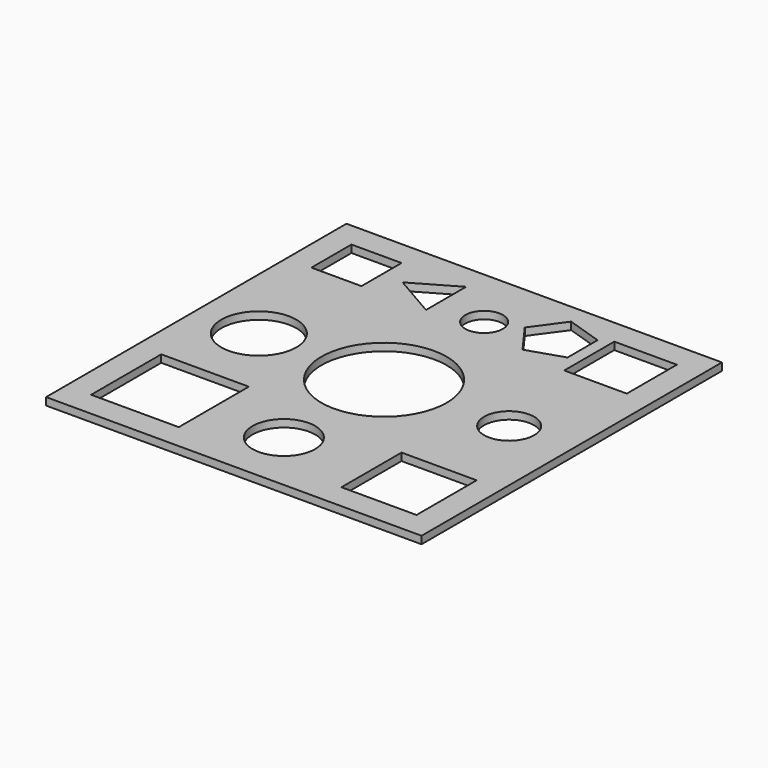
from build123d import *

# Parameters (mm, degrees)
F0_W     = 150
F0_H     = 150
F0_W_2   = 35
F0_H_2   = 35
F0_R     = 12.5
F0_W_3   = 30
F0_H_3   = 30
F0_R_2   = 15
F0_W_4   = 20
F0_H_4   = 20
F0_R_3   = 25
F0_R_4   = 10
F0_R_5   = 7.5
F0_W_5   = 25
F0_H_5   = 25
F1_DEPTH = 3


with BuildPart() as f1:
    # F0 (on Top) → F1 (new body)
    with BuildSketch(Plane.XY):
        with Locations((75, -75)):
            Rectangle(F0_W, F0_H)
        with Locations((27.5, -122.5)):
            Rectangle(F0_W_2, F0_H_2, mode=Mode.SUBTRACT)
        with Locations((75, -125)):
            Circle(F0_R, mode=Mode.SUBTRACT)
        with Locations((125, -125)):
            Rectangle(F0_W_3, F0_H_3, mode=Mode.SUBTRACT)
        with Locations((25, -75)):
            Circle(F0_R_2, mode=Mode.SUBTRACT)
        with Locations((20, -20)):
            Rectangle(F0_W_4, F0_H_4, mode=Mode.SUBTRACT)
        Polygon((38.452995, -20), (55.773503, -10), (55.773503, -30), align=None, mode=Mode.SUBTRACT)
        with Locations((75, -75)):
            Circle(F0_R_3, mode=Mode.SUBTRACT)
        with Locations((125, -75)):
            Circle(F0_R_4, mode=Mode.SUBTRACT)
        with Locations((75, -25)):
            Circle(F0_R_5, mode=Mode.SUBTRACT)
        Polygon((96.057017, -7.864745), (110.322864, -12.5), (110.322864, -27.5), (96.057017, -32.135255), (87.240238, -20), align=None, mode=Mode.SUBTRACT)
        with Locations((127.5, -22.5)):
            Rectangle(F0_W_5, F0_H_5, mode=Mode.SUBTRACT)
    extrude(amount=F1_DEPTH)


solid = f1.part
